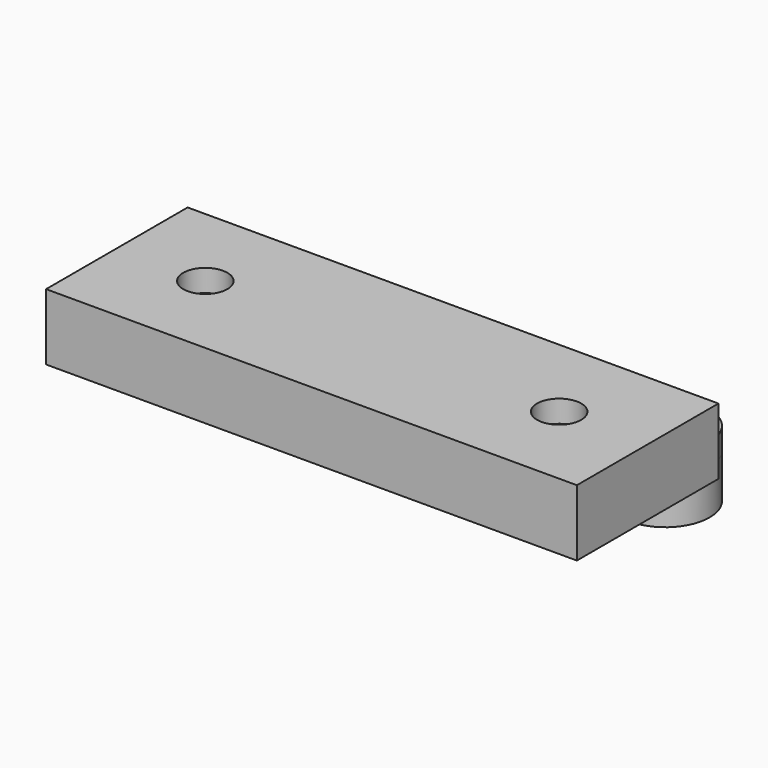
from build123d import *

# Parameters (mm, degrees)
F0_W          = 120
F0_H          = 40
F0_R          = 5
F1_DEPTH      = 15
F2_R          = 5
F3_DEPTH      = 5
F4_DEPTH      = 10
F4_DEPTH_BACK = 5
F5_DEPTH      = 10
F5_DEPTH_BACK = 5
F6_DEPTH      = 15
F7_DEPTH      = 15
F9_R          = 5
F10_DEPTH     = 10


with BuildPart() as f1:
    # F0 (on Top) → F1 (new body)
    with BuildSketch(Plane.XY):
        with Locations((60, 20)):
            Rectangle(F0_W, F0_H)
        with Locations((20, 20)):
            Circle(F0_R, mode=Mode.SUBTRACT)
        with Locations((100, 20)):
            Circle(F0_R, mode=Mode.SUBTRACT)
    extrude(amount=F1_DEPTH)


with BuildPart() as f3:
    # F2 (on Top) → F3 (new body)
    with BuildSketch(Plane.XY):
        with BuildLine():
            Line((10, 50), (10, 20))
            ThreePointArc((10, 20), (20, 10), (30, 20))
            Line((30, 20), (30, 50))
            ThreePointArc((30, 50), (20, 60), (10, 50))
        make_face()
        with Locations((20, 20)):
            Circle(F2_R, mode=Mode.SUBTRACT)
        with Locations((20, 50)):
            Circle(F2_R, mode=Mode.SUBTRACT)
    extrude(amount=-F3_DEPTH)

    # F2 (on Top) → F4 (join, two sides)
    with BuildSketch(Plane.XY) as f4_sk:
        with Locations((20, 20)):
            Circle(F2_R)
    extrude(amount=F4_DEPTH)
    extrude(f4_sk.sketch, amount=-F4_DEPTH_BACK)

    # F2 (on Top) → F6 (join)
    with BuildSketch(Plane.XY):
        with Locations((20, 50)):
            Circle(F2_R)
    extrude(amount=-F6_DEPTH)


with BuildPart() as f3b:
    # F2 (on Top) → F3, piece 2 (new body)
    with BuildSketch(Plane.XY):
        with BuildLine():
            Line((90, 50), (90, 20))
            ThreePointArc((90, 20), (100, 10), (110, 20))
            Line((110, 20), (110, 50))
            ThreePointArc((110, 50), (100, 60), (90, 50))
        make_face()
        with Locations((100, 20)):
            Circle(F2_R, mode=Mode.SUBTRACT)
        with Locations((100, 50)):
            Circle(F2_R, mode=Mode.SUBTRACT)
    extrude(amount=-F3_DEPTH)

    # F2 (on Top) → F5 (join, two sides)
    with BuildSketch(Plane.XY) as f5_sk:
        with Locations((100, 20)):
            Circle(F2_R)
    extrude(amount=F5_DEPTH)
    extrude(f5_sk.sketch, amount=-F5_DEPTH_BACK)

    # F2 (on Top) → F7 (join)
    with BuildSketch(Plane.XY):
        with Locations((100, 50)):
            Circle(F2_R)
    extrude(amount=-F7_DEPTH)


with BuildPart() as f10:
    # F9 (on offset) → F10 (new body)
    with BuildSketch(Plane(origin=(0, 0, -5), x_dir=(1, 0, 0), z_dir=(0, 0, -1))):
        with BuildLine():
            ThreePointArc((100, -60), (110, -50), (100, -40))
            Line((100, -40), (20, -40))
            ThreePointArc((20, -40), (10, -50), (20, -60))
            Line((20, -60), (100, -60))
        make_face()
        with Locations((20, -50)):
            Circle(F9_R, mode=Mode.SUBTRACT)
        with Locations((100, -50)):
            Circle(F9_R, mode=Mode.SUBTRACT)
    extrude(amount=F10_DEPTH)


solid = Compound([f1.part, f3.part, f3b.part, f10.part])
